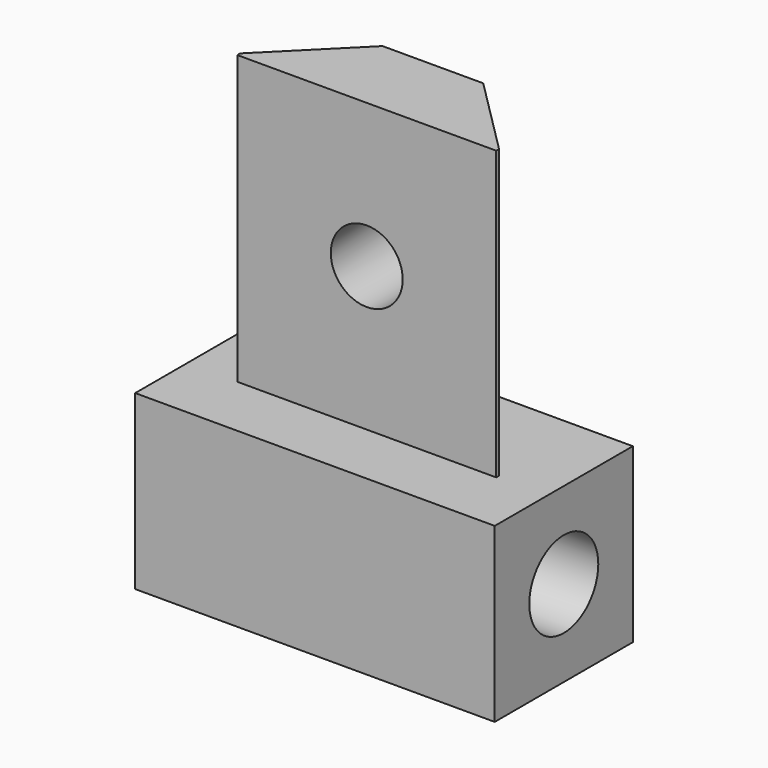
from build123d import *

# Parameters (mm, degrees)
F1_DEPTH = 20
F2_W     = 25
F2_H     = 12
F3_DEPTH = 12
F4_R     = 3
F5_DEPTH = 10
F6_R     = 3
F7_DEPTH = 10
F8_R     = 2.5
F9_DEPTH = 25


with BuildPart() as f1:
    # F0 (on Top) → F1 (new body)
    with BuildSketch(Plane.XY):
        Polygon((-9, 0), (0, 0), (9, 0), (9, 0.249999), (3.5, 5.749999), (0, 5.749999), (-3.5, 5.749999), (-9, 0.249999), align=None)
    extrude(amount=F1_DEPTH)

    # F2 (on Top) → F3 (join)
    with BuildSketch(Plane.XY):
        with Locations((0, 1.5)):
            Rectangle(F2_W, F2_H)
    extrude(amount=-F3_DEPTH)

    # F4 (on face) → F5 (cut)
    with BuildSketch(Plane.YZ.offset(12.5)):
        with Locations((1.5, -6)):
            Circle(F4_R)
    extrude(amount=-F5_DEPTH, mode=Mode.SUBTRACT)

    # F6 (on face) → F7 (cut)
    with BuildSketch(Plane(origin=(-12.5, 0, 0), x_dir=(0, -1, 0), z_dir=(-1, 0, 0))):
        with Locations((-1.5, -6)):
            Circle(F6_R)
    extrude(amount=-F7_DEPTH, mode=Mode.SUBTRACT)

    # F8 (on face) → F9 (cut)
    with BuildSketch(Plane.XZ):
        with Locations((0, 10)):
            Circle(F8_R)
    extrude(amount=-F9_DEPTH, mode=Mode.SUBTRACT)


solid = f1.part
